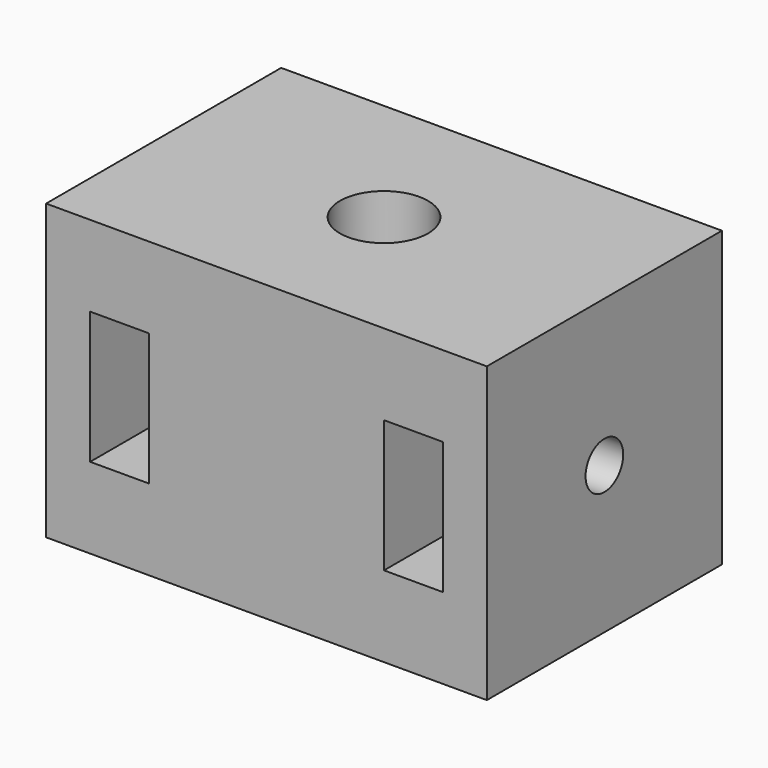
from build123d import *

# Parameters (mm, degrees)
F0_W     = 15
F0_H     = 10
F1_DEPTH = 10
F2_W     = 2
F2_H     = 4.5
F3_DEPTH = 10
F4_R     = 1.5
F5_DEPTH = 15
F6_R     = 0.8
F7_DEPTH = 15


with BuildPart() as f1:
    # F0 (on Top) → F1 (new body)
    with BuildSketch(Plane.XY):
        Rectangle(F0_W, F0_H)
    extrude(amount=F1_DEPTH)

    # F2 (on face) → F3 (cut, through all)
    with BuildSketch(Plane.XZ.offset(5)):
        with Locations((-5, 5)):
            Rectangle(F2_W, F2_H)
        with Locations((5, 5)):
            Rectangle(F2_W, F2_H)
    extrude(amount=-F3_DEPTH, mode=Mode.SUBTRACT)

    # F4 (on face) → F5 (cut)
    with BuildSketch(Plane(origin=(0, 0, 0), x_dir=(1, 0, 0), z_dir=(0, 0, -1))):
        Circle(F4_R)
    extrude(amount=-F5_DEPTH, mode=Mode.SUBTRACT)

    # F6 (on face) → F7 (cut, through all)
    with BuildSketch(Plane(origin=(-7.5, 0, 0), x_dir=(0, -1, 0), z_dir=(-1, 0, 0))):
        with Locations((0, 5)):
            Circle(F6_R)
    extrude(amount=-F7_DEPTH, mode=Mode.SUBTRACT)


solid = f1.part
